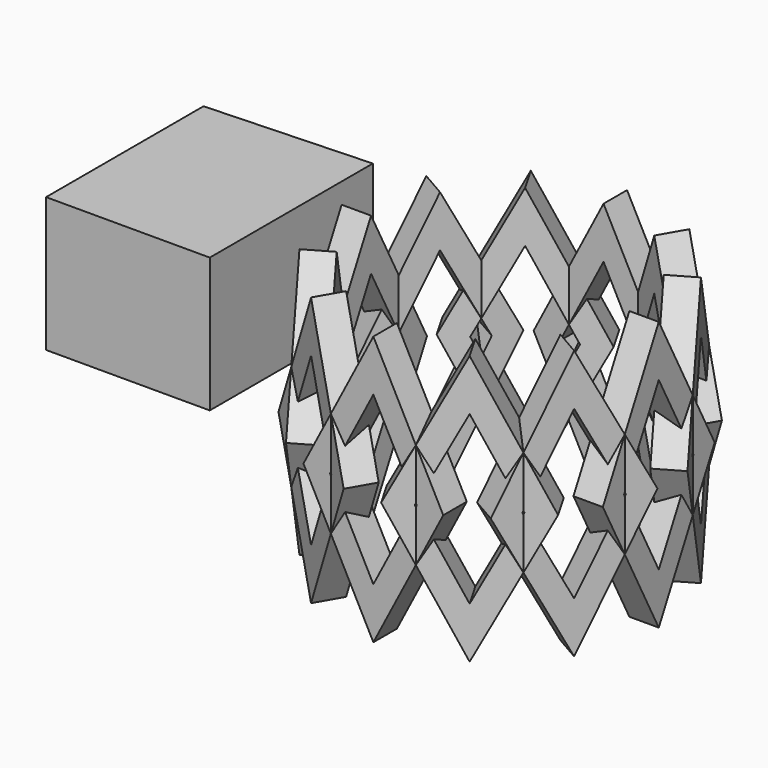
from build123d import *

# Parameters (mm, degrees)
F1_DEPTH = 5
F3_COUNT = 12
F5_DEPTH = 22.877


with BuildPart() as f1:
    # F0 (on Right) → F1 (new body)
    with BuildSketch(Plane.YZ):
        Polygon((11.882075, 0), (0, 22.877339), (-11.882075, 0), (0, -22.877339), align=None)
        Polygon((-7.374734, 0), (0, 14.19906), (7.374734, 0), (0, -14.19906), align=None, mode=Mode.SUBTRACT)
    extrude(amount=-F1_DEPTH)


with BuildPart() as f3_1:
    # F3: instance of F1
    add(f1.part.rotate(Axis((21.955656, 0, 18.189354), (0, 0, 1)), 1 * 360 / F3_COUNT))


with BuildPart() as f3_2:
    # F3: instance of F1
    add(f1.part.rotate(Axis((21.955656, 0, 18.189354), (0, 0, 1)), 2 * 360 / F3_COUNT))


with BuildPart() as f3_3:
    # F3: instance of F1
    add(f1.part.rotate(Axis((21.955656, 0, 18.189354), (0, 0, 1)), 3 * 360 / F3_COUNT))


with BuildPart() as f3_4:
    # F3: instance of F1
    add(f1.part.rotate(Axis((21.955656, 0, 18.189354), (0, 0, 1)), 4 * 360 / F3_COUNT))


with BuildPart() as f3_5:
    # F3: instance of F1
    add(f1.part.rotate(Axis((21.955656, 0, 18.189354), (0, 0, 1)), 5 * 360 / F3_COUNT))


with BuildPart() as f3_6:
    # F3: instance of F1
    add(f1.part.rotate(Axis((21.955656, 0, 18.189354), (0, 0, 1)), 6 * 360 / F3_COUNT))


with BuildPart() as f3_7:
    # F3: instance of F1
    add(f1.part.rotate(Axis((21.955656, 0, 18.189354), (0, 0, 1)), 7 * 360 / F3_COUNT))


with BuildPart() as f3_8:
    # F3: instance of F1
    add(f1.part.rotate(Axis((21.955656, 0, 18.189354), (0, 0, 1)), 8 * 360 / F3_COUNT))


with BuildPart() as f3_9:
    # F3: instance of F1
    add(f1.part.rotate(Axis((21.955656, 0, 18.189354), (0, 0, 1)), 9 * 360 / F3_COUNT))


with BuildPart() as f3_10:
    # F3: instance of F1
    add(f1.part.rotate(Axis((21.955656, 0, 18.189354), (0, 0, 1)), 10 * 360 / F3_COUNT))


with BuildPart() as f3_11:
    # F3: instance of F1
    add(f1.part.rotate(Axis((21.955656, 0, 18.189354), (0, 0, 1)), 11 * 360 / F3_COUNT))


with BuildPart() as f5:
    # F4 (on Top) → F5 (new body)
    with BuildSketch(Plane.XY):
        Polygon((-9.177633, -22.796053), (-9.177633, 11.842106), (-37.006579, 10.657895), (-37.006579, -22.796053), align=None)
    extrude(amount=F5_DEPTH)


solid = Compound([f1.part, f3_1.part, f3_2.part, f3_3.part, f3_4.part, f3_5.part, f3_6.part, f3_7.part, f3_8.part, f3_9.part, f3_10.part, f3_11.part, f5.part])
